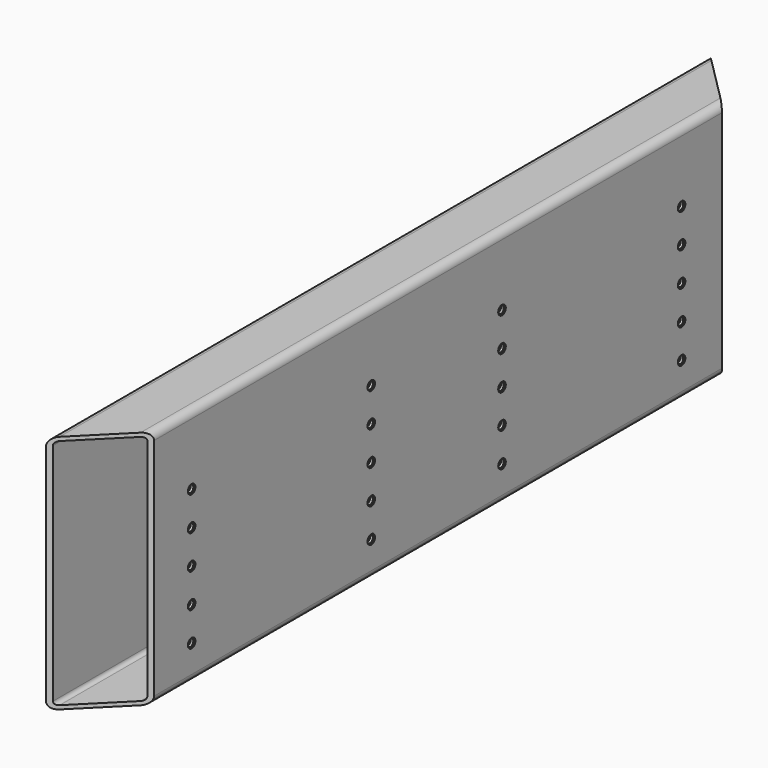
from build123d import *

# Parameters (mm, degrees)
F1_DEPTH       = 1121.496
F3_DEPTH       = 304.801
F6_D           = 9
F6_DEPTH       = 10
F6_CBORE_D     = 12
F6_CBORE_DEPTH = 1.5
F8_DEPTH       = 304.8


with BuildPart() as f1:
    # F0 (on Front) → F1 (new body)
    with BuildSketch(Plane.XZ):
        with BuildLine():
            Line((-66.6495, -50.8), (-9.5504, -50.8))
            ThreePointArc((-9.5504, -50.8), (-2.797247, -48.002753), (0, -41.2496))
            Line((0, -41.2496), (0, 244.4495))
            ThreePointArc((0, 244.4495), (-2.797277, 251.202723), (-9.5505, 254))
            Line((-9.5505, 254), (-66.6496, 254))
            ThreePointArc((-66.6496, 254), (-73.402753, 251.202753), (-76.2, 244.4496))
            Line((-76.2, 244.4496), (-76.2, -41.2495))
            ThreePointArc((-76.2, -41.2495), (-73.402723, -48.002723), (-66.6495, -50.8))
        make_face()
        with BuildLine():
            ThreePointArc((-71.4248, 244.4496), (-70.026176, 247.826176), (-66.6496, 249.2248))
            Line((-66.6496, 249.2248), (-9.5504, 249.2248))
            ThreePointArc((-9.5504, 249.2248), (-6.173824, 247.826176), (-4.7752, 244.4496))
            Line((-4.7752, 244.4496), (-4.7752, -41.2496))
            ThreePointArc((-4.7752, -41.2496), (-6.173824, -44.626176), (-9.5504, -46.0248))
            Line((-9.5504, -46.0248), (-66.6496, -46.0248))
            ThreePointArc((-66.6496, -46.0248), (-70.026176, -44.626176), (-71.4248, -41.2496))
            Line((-71.4248, -41.2496), (-71.4248, 244.4496))
        make_face(mode=Mode.SUBTRACT)
    extrude(amount=F1_DEPTH)

    # F2 (on face) → F3 (cut, through all)
    with BuildSketch(Plane.XY.offset(254)):
        Polygon((0, 0), (-76.2, 0), (0, -76.2), align=None)
        Polygon((0, -1045.296), (-76.2, -1121.496), (0, -1121.496), align=None)
    extrude(amount=-F3_DEPTH, mode=Mode.SUBTRACT)


with BuildPart() as f1_1:
    # F4: moved
    add(f1.part.moved(Location((0, 25.4, 0))))

    # F6
    with Locations(Plane.YZ):
        with Locations((-892.429, 165.784009), (-892.429, 122.784009), (-892.429, 79.784009), (-892.429, 36.784009), (-892.429, -6.215991), (-607.3902, 165.784009), (-607.3902, 122.784009), (-607.3902, 79.784009), (-607.3902, 36.784009), (-607.3902, -6.215991), (-399.8468, 165.784009), (-399.8468, 122.784009), (-399.8468, 79.784009), (-399.8468, 36.784009), (-399.8468, -6.215991), (-114.808, 165.784009), (-114.808, 122.784009), (-114.808, 79.784009), (-114.808, 36.784009), (-114.808, -6.215991)):
            CounterBoreHole(F6_D / 2, F6_CBORE_D / 2, F6_CBORE_DEPTH, depth=F6_DEPTH)

    # F7 (on face) → F8 (cut, through all)
    with BuildSketch(Plane.XY.offset(254)):
        Polygon((0, -952.008), (-76.2, -1028.208), (-76.2, -1096.096), (0, -1096.096), align=None)
    extrude(amount=-F8_DEPTH, mode=Mode.SUBTRACT)


solid = f1_1.part
